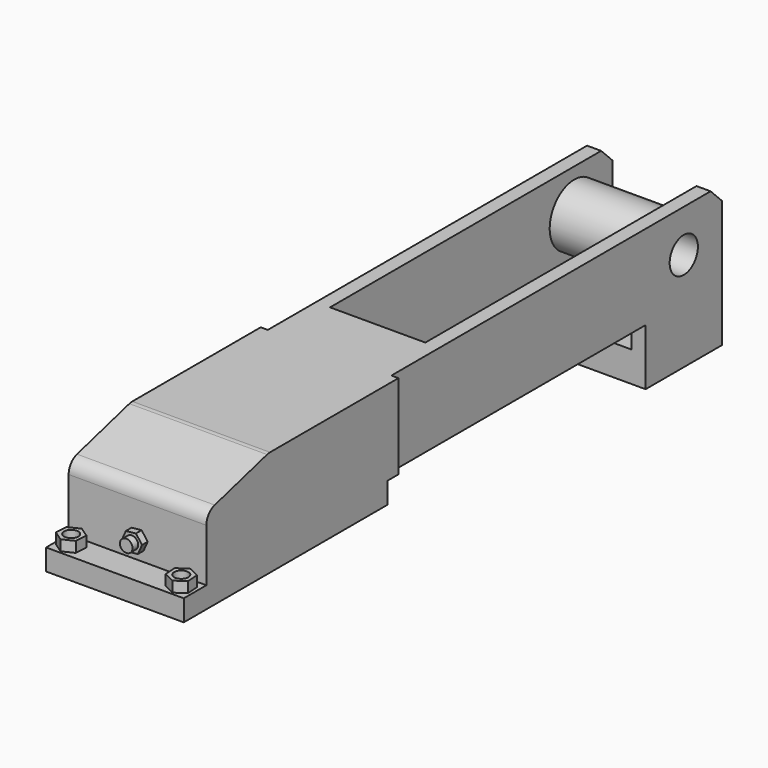
from build123d import *

# Parameters (mm, degrees)
F1_DEPTH  = 17.5
F2_W      = 13.5
F2_H      = 15.7
F3_DEPTH  = 50
F4_W      = 34
F4_H      = 12
F5_DEPTH  = 1
F6_W      = 34
F6_H      = 12
F7_DEPTH  = 1
F8_SIZE2  = 11
F8_SIZE   = 3
F9_R      = 2
F10_SIZE  = 2
F11_R     = 4.3608060118
F12_DEPTH = 17
F13_R     = 2.5
F14_DEPTH = 25
F15_W     = 19.5
F15_H     = 32.0418726716
F16_DEPTH = 3
F17_W     = 19.5
F17_H     = 3
F18_DEPTH = 4
F20_DEPTH = 25
F22_DEPTH = 1
F23_R     = 0.8932085331
F24_DEPTH = 1
F25_DEPTH = 1.5
F26_R     = 1
F27_DEPTH = 25
F28_R     = 1
F29_DEPTH = 25


with BuildPart() as f1:
    # F0 (on Right) → F1 (new body)
    with BuildSketch(Plane.YZ):
        Polygon((-14.6852832351, 12), (-14.6852832351, 0), (64.3147167649, 0), (64.3147167649, -8), (77.8247167649, -8), (77.8247167649, 12), align=None)
    extrude(amount=F1_DEPTH)

    # F2 (on face) → F3 (cut)
    with BuildSketch(Plane(origin=(0, 77.8247167649, 0), x_dir=(-1, 0, 0), z_dir=(0, 1, 0))):
        with Locations((-8.75, 4.15)):
            Rectangle(F2_W, F2_H)
    extrude(amount=-F3_DEPTH, mode=Mode.SUBTRACT)

    # F4 (on face) → F5 (join)
    with BuildSketch(Plane(origin=(0, 0, 0), x_dir=(0, -1, 0), z_dir=(-1, 0, 0))):
        with Locations((-2.3147167649, 6)):
            Rectangle(F4_W, F4_H)
    extrude(amount=F5_DEPTH)

    # F6 (on face) → F7 (join)
    with BuildSketch(Plane.YZ.offset(17.5)):
        with Locations((2.3147167649, 6)):
            Rectangle(F6_W, F6_H)
    extrude(amount=F7_DEPTH)

    # F8
    f8_edges = [f1.edges().sort_by_distance(p)[0] for p in [
        (8.75, -14.685283, 12),
    ]]
    f8_side = f1.faces().sort_by_distance((8.75, -14.685283, 6))[0]
    chamfer(f8_edges, length=F8_SIZE, length2=F8_SIZE2, reference=f8_side)

    # F9
    f9_edges = [f1.edges().sort_by_distance(p)[0] for p in [
        (8.75, -3.685283, 12),
        (8.75, -14.685283, 9),
    ]]
    fillet(f9_edges, radius=F9_R)

    # F10
    f10_edges = [f1.edges().sort_by_distance(p)[0] for p in [
        (1, 77.824717, 12),
        (16.5, 77.824717, 12),
    ]]
    chamfer(f10_edges, length=F10_SIZE)

    # F11 (on face) → F12 (join)
    with BuildSketch(Plane(origin=(0, 0, 0), x_dir=(0, -1, 0), z_dir=(-1, 0, 0))):
        with Locations((-71.0697167649, 6)):
            Circle(F11_R)
    extrude(amount=-F12_DEPTH)

    # F13 (on face) → F14 (cut)
    with BuildSketch(Plane.YZ.offset(17.5)):
        with Locations((71.0697167649, 6)):
            Circle(F13_R)
    extrude(amount=-F14_DEPTH, mode=Mode.SUBTRACT)

    # F15 (on face) → F16 (join)
    with BuildSketch(Plane(origin=(0, 0, 0), x_dir=(1, 0, 0), z_dir=(0, 0, -1))):
        with Locations((8.75, -1.3356531007)):
            Rectangle(F15_W, F15_H)
    extrude(amount=F16_DEPTH)

    # F17 (on face) → F18 (join)
    with BuildSketch(Plane.XZ.offset(14.6852832351)):
        with Locations((8.75, -1.5)):
            Rectangle(F17_W, F17_H)
    extrude(amount=F18_DEPTH)

    # F19 (on face) → F20 (cut)
    with BuildSketch(Plane.XY):
        Polygon((16.659564737, -18.4134932892), (18.0985973966, -17.4495508612), (17.983315096, -15.7213408071), (16.4290001357, -14.9570731809), (14.9899674761, -15.921015609), (15.1052497767, -17.6492256631), align=None)
        Polygon((2.3947502233, -17.6492256631), (2.5100325239, -15.921015609), (1.0709998643, -14.9570731809), (-0.483315096, -15.7213408071), (-0.5985973966, -17.4495508612), (0.840435263, -18.4134932892), align=None)
    extrude(amount=-F20_DEPTH, mode=Mode.SUBTRACT)

    # F21 (on face) → F22 (join)
    with BuildSketch(Plane.XZ.offset(14.6852832351)):
        Polygon((7.8985828945, 3.7304804047), (7.314926952, 2.4103746991), (8.1663440575, 1.244860973), (9.6014171055, 1.3994529525), (10.185073048, 2.7195586581), (9.3336559425, 3.8850723843), align=None)
    extrude(amount=F22_DEPTH)

    # F23 (on face) → F24 (join)
    with BuildSketch(Plane.XZ.offset(15.6852832351)):
        with Locations((8.75, 2.5649666786)):
            Circle(F23_R)
    extrude(amount=F24_DEPTH)


with BuildPart() as f25:
    # F19 (on face) → F25 (new body)
    with BuildSketch(Plane.XY):
        Polygon((16.659564737, -18.4134932892), (18.0985973966, -17.4495508612), (17.983315096, -15.7213408071), (16.4290001357, -14.9570731809), (14.9899674761, -15.921015609), (15.1052497767, -17.6492256631), align=None)
    extrude(amount=F25_DEPTH)

    # F26 (on face) → F27 (cut)
    with BuildSketch(Plane.XY.offset(1.5)):
        with Locations((16.5442824364, -16.6852832351)):
            Circle(F26_R)
    extrude(amount=-F27_DEPTH, mode=Mode.SUBTRACT)


with BuildPart() as f25b:
    # F19 (on face) → F25, piece 2 (new body)
    with BuildSketch(Plane.XY):
        Polygon((2.3947502233, -17.6492256631), (2.5100325239, -15.921015609), (1.0709998643, -14.9570731809), (-0.483315096, -15.7213408071), (-0.5985973966, -17.4495508612), (0.840435263, -18.4134932892), align=None)
    extrude(amount=F25_DEPTH)

    # F28 (on face) → F29 (cut)
    with BuildSketch(Plane.XY.offset(1.5)):
        with Locations((0.9557175636, -16.6852832351)):
            Circle(F28_R)
    extrude(amount=-F29_DEPTH, mode=Mode.SUBTRACT)


solid = Compound([f1.part, f25.part, f25b.part])
